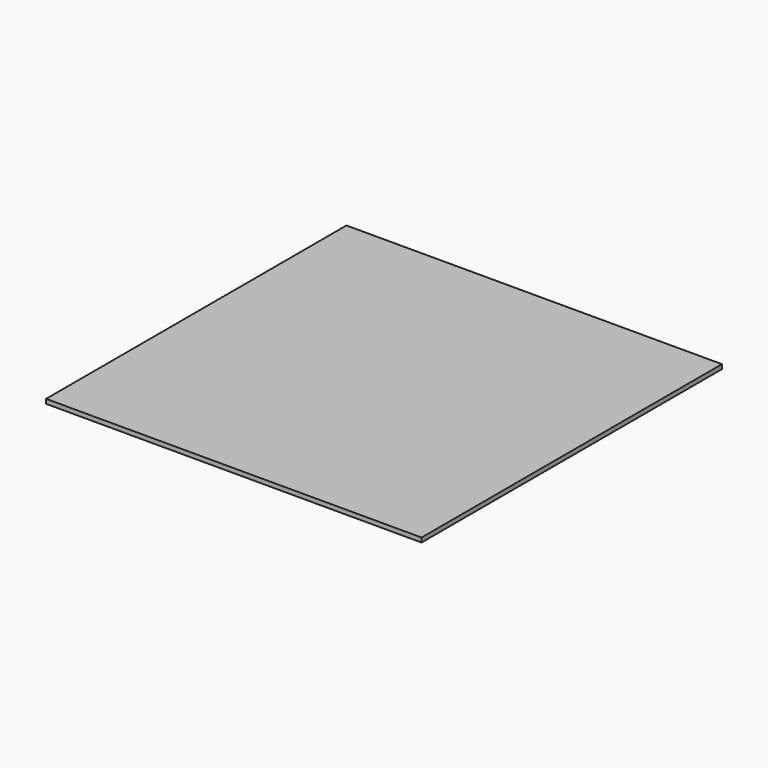
from build123d import *

# Parameters (mm, degrees)
SKETCH_W  = 170
SKETCH_H  = 170
PAD_DEPTH = 2


with BuildPart() as part:
    # Sketch → Pad (new body)
    with BuildSketch(Plane.XY):
        with Locations((13.122903, 74.566328)):
            Rectangle(SKETCH_W, SKETCH_H)
    extrude(amount=PAD_DEPTH)


solid = part.part
